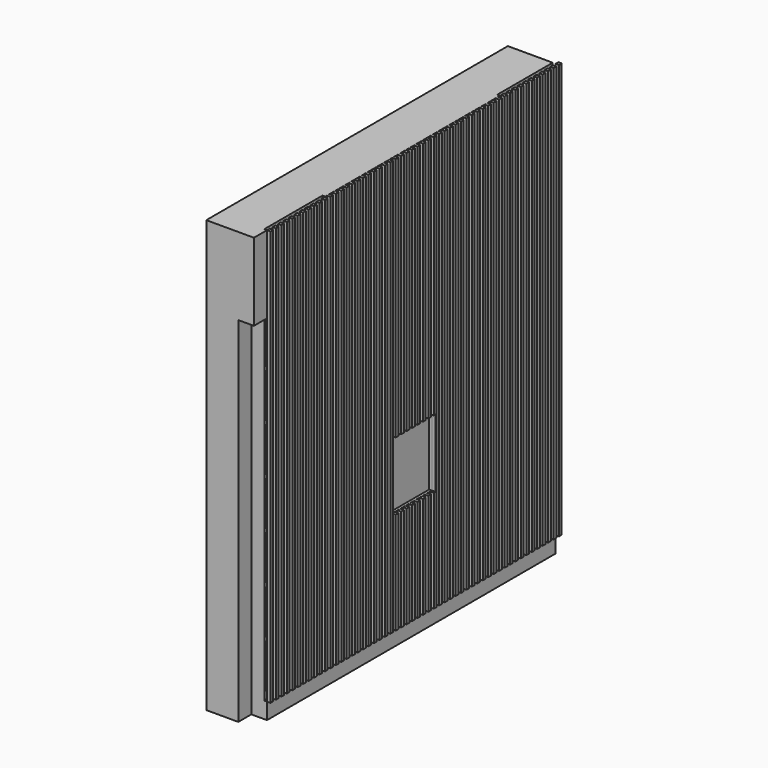
from build123d import *

# Parameters (mm, degrees)
F0_W          = 350
F0_H          = 2650
F2_DEPTH      = 3170
F5_W          = 25
F5_H          = 25
F6_DEPTH      = 3050
F3_W          = 380
F3_H          = 500
F7_DEPTH      = 26.001
F7_DEPTH_BACK = 20
F8_W          = 510
F8_H          = 3050
F8_W_2        = 535
F9_DEPTH      = 20
F11_W         = 1095
F11_H         = 330
F12_DEPTH     = 310
F13_W         = 235
F13_H         = 120
F14_DEPTH     = 3170
F15_W         = 115
F15_H         = 120
F16_DEPTH     = 570


with BuildPart() as f2:
    # F0 (on Top) → F2 (new body)
    with BuildSketch(Plane.XY):
        with Locations((175, 1325)):
            Rectangle(F0_W, F0_H)
    extrude(amount=F2_DEPTH)


with BuildPart() as f6:
    # F5 (on offset) → F6 (new body, through all)
    with BuildSketch(Plane.XY.offset(120)):
        with Locations((363.5, 12.5)):
            Rectangle(F5_W, F5_H)
        with Locations((363.5, 62.5)):
            Rectangle(F5_W, F5_H)
        with Locations((363.5, 112.5)):
            Rectangle(F5_W, F5_H)
        with Locations((363.5, 162.5)):
            Rectangle(F5_W, F5_H)
        with Locations((363.5, 212.5)):
            Rectangle(F5_W, F5_H)
        with Locations((363.5, 262.5)):
            Rectangle(F5_W, F5_H)
        with Locations((363.5, 312.5)):
            Rectangle(F5_W, F5_H)
        with Locations((363.5, 362.5)):
            Rectangle(F5_W, F5_H)
        with Locations((363.5, 412.5)):
            Rectangle(F5_W, F5_H)
        with Locations((363.5, 462.5)):
            Rectangle(F5_W, F5_H)
        with Locations((363.5, 512.5)):
            Rectangle(F5_W, F5_H)
        with Locations((363.5, 562.5)):
            Rectangle(F5_W, F5_H)
        with Locations((363.5, 612.5)):
            Rectangle(F5_W, F5_H)
        with Locations((363.5, 662.5)):
            Rectangle(F5_W, F5_H)
        with Locations((363.5, 712.5)):
            Rectangle(F5_W, F5_H)
        with Locations((363.5, 762.5)):
            Rectangle(F5_W, F5_H)
        with Locations((363.5, 812.5)):
            Rectangle(F5_W, F5_H)
        with Locations((363.5, 862.5)):
            Rectangle(F5_W, F5_H)
        with Locations((363.5, 912.5)):
            Rectangle(F5_W, F5_H)
        with Locations((363.5, 962.5)):
            Rectangle(F5_W, F5_H)
        with Locations((363.5, 1012.5)):
            Rectangle(F5_W, F5_H)
        with Locations((363.5, 1062.5)):
            Rectangle(F5_W, F5_H)
        with Locations((363.5, 1112.5)):
            Rectangle(F5_W, F5_H)
        with Locations((363.5, 1162.5)):
            Rectangle(F5_W, F5_H)
        with Locations((363.5, 1212.5)):
            Rectangle(F5_W, F5_H)
        with Locations((363.5, 1262.5)):
            Rectangle(F5_W, F5_H)
        with Locations((363.5, 1312.5)):
            Rectangle(F5_W, F5_H)
        with Locations((363.5, 1362.5)):
            Rectangle(F5_W, F5_H)
        with Locations((363.5, 1412.5)):
            Rectangle(F5_W, F5_H)
        with Locations((363.5, 1462.5)):
            Rectangle(F5_W, F5_H)
        with Locations((363.5, 1512.5)):
            Rectangle(F5_W, F5_H)
        with Locations((363.5, 1562.5)):
            Rectangle(F5_W, F5_H)
        with Locations((363.5, 1612.5)):
            Rectangle(F5_W, F5_H)
        with Locations((363.5, 1662.5)):
            Rectangle(F5_W, F5_H)
        with Locations((363.5, 1712.5)):
            Rectangle(F5_W, F5_H)
        with Locations((363.5, 1762.5)):
            Rectangle(F5_W, F5_H)
        with Locations((363.5, 1812.5)):
            Rectangle(F5_W, F5_H)
        with Locations((363.5, 1862.5)):
            Rectangle(F5_W, F5_H)
        with Locations((363.5, 1912.5)):
            Rectangle(F5_W, F5_H)
        with Locations((363.5, 1962.5)):
            Rectangle(F5_W, F5_H)
        with Locations((363.5, 2012.5)):
            Rectangle(F5_W, F5_H)
        with Locations((363.5, 2062.5)):
            Rectangle(F5_W, F5_H)
        with Locations((363.5, 2112.5)):
            Rectangle(F5_W, F5_H)
        with Locations((363.5, 2162.5)):
            Rectangle(F5_W, F5_H)
        with Locations((363.5, 2212.5)):
            Rectangle(F5_W, F5_H)
        with Locations((363.5, 2262.5)):
            Rectangle(F5_W, F5_H)
        with Locations((363.5, 2312.5)):
            Rectangle(F5_W, F5_H)
        with Locations((363.5, 2362.5)):
            Rectangle(F5_W, F5_H)
        with Locations((363.5, 2412.5)):
            Rectangle(F5_W, F5_H)
        with Locations((363.5, 2462.5)):
            Rectangle(F5_W, F5_H)
        with Locations((363.5, 2512.5)):
            Rectangle(F5_W, F5_H)
        with Locations((363.5, 2562.5)):
            Rectangle(F5_W, F5_H)
        with Locations((363.5, 2612.5)):
            Rectangle(F5_W, F5_H)
        with Locations((363.5, 2662.5)):
            Rectangle(F5_W, F5_H)
    extrude(amount=F6_DEPTH)


with BuildPart() as f7_tool:
    # F3 (on face) → F7 (new body, two sides)
    with BuildSketch(Plane.YZ.offset(350)) as f7_sk:
        with Locations((1325, 1120)):
            Rectangle(F3_W, F3_H)
    extrude(amount=F7_DEPTH)
    extrude(f7_sk.sketch, amount=-F7_DEPTH_BACK)


with BuildPart() as f2_1:
    add(f2.part)

    # F7: cut by f7_tool
    add(f7_tool.part, mode=Mode.SUBTRACT)

    # F8 (on face) → F9 (cut)
    with BuildSketch(Plane.YZ.offset(350)):
        with Locations((2395, 1645)):
            Rectangle(F8_W, F8_H)
        with Locations((267.5, 1645)):
            Rectangle(F8_W_2, F8_H)
    extrude(amount=-F9_DEPTH, mode=Mode.SUBTRACT)

    # F11 (on face) → F12 (cut, through all)
    with BuildSketch(Plane.YZ.offset(330)):
        with Locations((567.5, 335)):
            Rectangle(F11_W, F11_H)
        with Locations((2082.5, 335)):
            Rectangle(F11_W, F11_H)
        with Locations((567.5, 685)):
            Rectangle(F11_W, F11_H)
        with Locations((2082.5, 685)):
            Rectangle(F11_W, F11_H)
        with Locations((567.5, 1035)):
            Rectangle(F11_W, F11_H)
        with Locations((2082.5, 1035)):
            Rectangle(F11_W, F11_H)
        with Locations((567.5, 1385)):
            Rectangle(F11_W, F11_H)
        with Locations((2082.5, 1385)):
            Rectangle(F11_W, F11_H)
        with Locations((567.5, 1735)):
            Rectangle(F11_W, F11_H)
        with Locations((2082.5, 1735)):
            Rectangle(F11_W, F11_H)
        with Locations((567.5, 2085)):
            Rectangle(F11_W, F11_H)
        with Locations((2082.5, 2085)):
            Rectangle(F11_W, F11_H)
        with Locations((567.5, 2435)):
            Rectangle(F11_W, F11_H)
        with Locations((2082.5, 2435)):
            Rectangle(F11_W, F11_H)
    extrude(amount=-F12_DEPTH, mode=Mode.SUBTRACT)

    # F13 (on Top) → F14 (join, through all)
    with BuildSketch(Plane.XY):
        with Locations((117.5, -60)):
            Rectangle(F13_W, F13_H)
    extrude(amount=F14_DEPTH)

    # F15 (on offset) → F16 (join)
    with BuildSketch(Plane.XY.offset(3170)):
        with Locations((292.5, -60)):
            Rectangle(F15_W, F15_H)
    extrude(amount=-F16_DEPTH)


with BuildPart() as f6_1:
    add(f6.part)

    # F7: cut by f7_tool
    add(f7_tool.part, mode=Mode.SUBTRACT)


solid = Compound([f2_1.part, f6_1.part])
